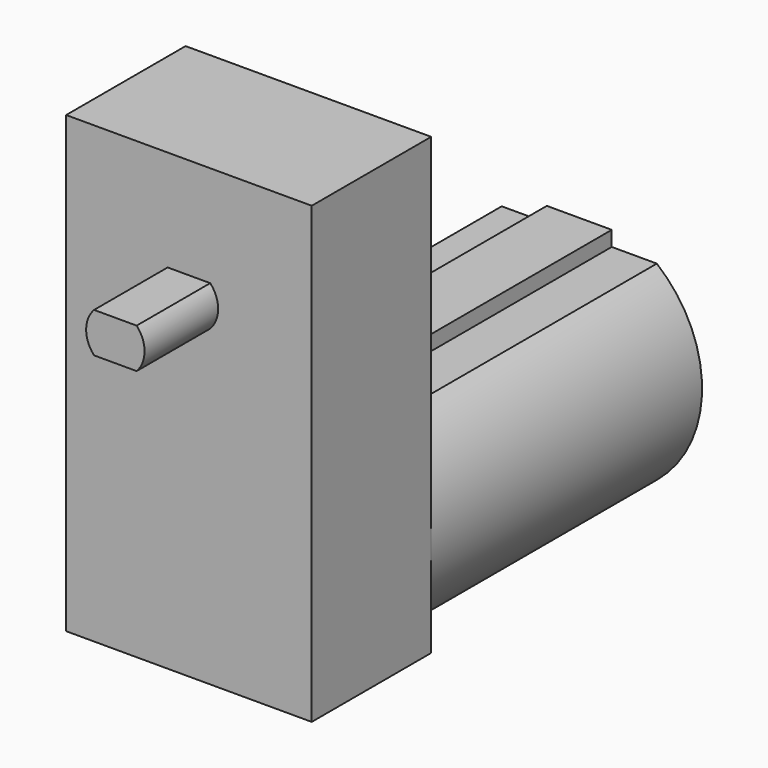
from build123d import *

# Parameters (mm, degrees)
F0_W     = 22.7
F0_H     = 42
F1_DEPTH = 13.8
F3_DEPTH = 8.5
F5_DEPTH = 45.1
F7_DEPTH = 3


with BuildPart() as f1:
    # F0 (on Front) → F1 (new body)
    with BuildSketch(Plane.XZ):
        with Locations((0, -9.8)):
            Rectangle(F0_W, F0_H)
    extrude(amount=-F1_DEPTH)

    # F2 (on face) → F3 (join)
    with BuildSketch(Plane.XZ):
        with BuildLine():
            Line((1.966596, 1.85), (-1.966596, 1.85))
            ThreePointArc((-1.966596, 1.85), (-2.7, 0), (-1.966596, -1.85))
            Line((-1.966596, -1.85), (1.966596, -1.85))
            ThreePointArc((1.966596, -1.85), (2.7, 0), (1.966596, 1.85))
        make_face()
    extrude(amount=F3_DEPTH)

    # F4 (on face) → F5 (join)
    with BuildSketch(Plane.XZ):
        with BuildLine():
            Line((7.168159, -13.2), (-7.168159, -13.2))
            ThreePointArc((-7.168159, -13.2), (-11.35, -22), (-7.168159, -30.8))
            Line((-7.168159, -30.8), (7.168159, -30.8))
            ThreePointArc((7.168159, -30.8), (11.35, -22), (7.168159, -13.2))
        make_face()
    extrude(amount=-F5_DEPTH)

    # F6 (on Right) → F7 (join, symmetric)
    with BuildSketch(Plane.YZ):
        Polygon((21.067004, -7.2), (13.8, -7.2), (13.8, -36.8), (21.067004, -36.8), (21.067004, -32.191654), (45.1, -32.191654), (45.1, -11.808346), (21.067004, -11.808346), align=None)
    extrude(amount=F7_DEPTH, both=True)


solid = f1.part
